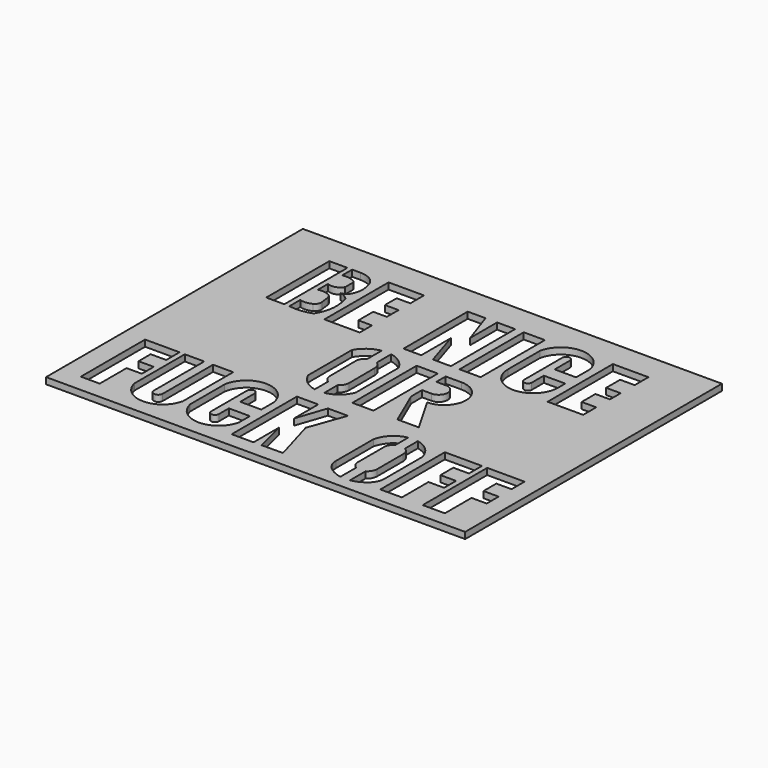
from build123d import *

# Parameters (mm, degrees)
F0_W     = 131.516211
F0_H     = 100.728699
F0_W_2   = 6.638455
F0_H_2   = 25.194527
F1_DEPTH = 2


with BuildPart() as f1:
    # F0 (on Top) → F1 (new body)
    with BuildSketch(Plane.XY):
        with Locations((-15.519272, 42.4329)):
            Rectangle(F0_W, F0_H)
        Polygon((-68.850037, -2.430835), (-74.776439, -2.430835), (-74.776439, 22.785447), (-63.96946, 22.785447), (-63.96946, 17.556264), (-68.850037, 17.556264), (-68.850037, 12.80131), (-64.063724, 12.80131), (-64.063724, 8.106085), (-68.850037, 8.106085), align=None, mode=Mode.SUBTRACT)
        with BuildLine():
            Line((-62.294139, 2.993519), (-62.294139, 22.761751))
            Line((-62.294139, 22.761751), (-56.189241, 22.761751))
            Line((-56.189241, 22.761751), (-56.189241, 2.993519))
            ThreePointArc((-56.189241, 2.993519), (-54.808373, 1.612651), (-53.427506, 2.993519))
            Line((-53.427506, 2.993519), (-53.427506, 22.761751))
            Line((-53.427506, 22.761751), (-47.104577, 22.761751))
            Line((-47.104577, 22.761751), (-47.104577, 2.993519))
            ThreePointArc((-47.104577, 2.993519), (-54.699358, -3.115539), (-62.294139, 2.993519))
        make_face(mode=Mode.SUBTRACT)
        with BuildLine():
            Line((-29.337341, 11.555552), (-35.934916, 11.555552))
            Line((-35.934916, 11.555552), (-35.934916, 15.273595))
            Line((-35.934916, 15.273595), (-35.934916, 17.210616))
            ThreePointArc((-35.934916, 17.210616), (-37.134475, 18.410176), (-38.334034, 17.210616))
            Line((-38.334034, 17.210616), (-38.334034, 3.15864))
            ThreePointArc((-38.334034, 3.15864), (-37.134475, 1.959081), (-35.934916, 3.15864))
            Line((-35.934916, 3.15864), (-35.934916, 7.100048))
            Line((-35.934916, 7.100048), (-29.337341, 7.100048))
            Line((-29.337341, 7.100048), (-29.337341, 2.874103))
            ThreePointArc((-29.337341, 2.874103), (-37.016067, -3.372054), (-44.694794, 2.874103))
            Line((-44.694794, 2.874103), (-44.694794, 16.384021))
            ThreePointArc((-44.694794, 16.384021), (-37.007705, 23.040471), (-29.320617, 16.384021))
            Line((-29.320617, 16.384021), (-29.337341, 11.555552))
        make_face(mode=Mode.SUBTRACT)
        Polygon((-19.95869, -3.198726), (-26.82983, -3.198726), (-26.82983, 22.396269), (-20.130467, 22.396269), (-20.130467, 12.862562), (-16.952566, 22.22449), (-10.682652, 22.22449), (-14.805335, 10.80122), (-10.768539, -3.112837), (-17.466396, -3.179082), (-19.95869, 6.850315), align=None, mode=Mode.SUBTRACT)
        with BuildLine():
            ThreePointArc((-25.814149, 28.123592), (-29.397827, 29.802222), (-31.741319, 32.991044))
            Line((-31.741319, 32.991044), (-31.741319, 50.115033))
            ThreePointArc((-31.741319, 50.115033), (-29.269287, 52.933156), (-25.814149, 54.387382))
            Line((-25.814149, 54.387382), (-25.814149, 48.788673))
            ThreePointArc((-25.814149, 48.788673), (-26.952091, 47.699888), (-27.381687, 46.184694))
            Line((-27.381687, 46.184694), (-27.311863, 35.995477))
            ThreePointArc((-27.311863, 35.995477), (-26.910599, 34.496621), (-25.814149, 33.398722))
            Line((-25.814149, 33.398722), (-25.814149, 28.123592))
        make_face(mode=Mode.SUBTRACT)
        with BuildLine():
            ThreePointArc((-22.814149, 54.362678), (-19.316317, 52.801147), (-16.882406, 49.843227))
            Line((-16.882406, 49.843227), (-16.882406, 32.991044))
            ThreePointArc((-16.882406, 32.991044), (-19.227698, 29.800745), (-22.814149, 28.122721))
            Line((-22.814149, 28.122721), (-22.814149, 33.396082))
            ThreePointArc((-22.814149, 33.396082), (-21.714447, 34.494334), (-21.311863, 35.995477))
            Line((-21.311863, 35.995477), (-21.382029, 46.120634))
            ThreePointArc((-21.382029, 46.120634), (-21.756521, 47.604424), (-22.814149, 48.710454))
            Line((-22.814149, 48.710454), (-22.814149, 54.362678))
        make_face(mode=Mode.SUBTRACT)
        with BuildLine():
            ThreePointArc((8.089521, -4.181215), (5.692231, -3.40806), (3.6084, -1.992991))
            ThreePointArc((3.6084, -1.992991), (2.401899, -0.317145), (1.975488, 1.703321))
            Line((1.975488, 1.703321), (1.975488, 16.364558))
            ThreePointArc((1.975488, 16.364558), (4.111857, 20.329994), (8.089521, 22.443508))
            Line((8.089521, 22.443508), (8.089521, 17.418794))
            ThreePointArc((8.089521, 17.418794), (6.991848, 16.321416), (6.589521, 14.82233))
            Line((6.589521, 14.82233), (6.589521, 4.574558))
            ThreePointArc((6.589521, 4.574558), (6.991244, 3.074101), (8.089521, 1.975676))
            Line((8.089521, 1.975676), (8.089521, -4.181215))
        make_face(mode=Mode.SUBTRACT)
        with BuildLine():
            ThreePointArc((11.089521, 22.443508), (15.067185, 20.329994), (17.203554, 16.364558))
            Line((17.203554, 16.364558), (17.203554, 1.703321))
            ThreePointArc((17.203554, 1.703321), (16.777143, -0.317145), (15.570642, -1.992991))
            ThreePointArc((15.570642, -1.992991), (13.486812, -3.40806), (11.089521, -4.181215))
            Line((11.089521, -4.181215), (11.089521, 1.975675))
            ThreePointArc((11.089521, 1.975675), (12.187396, 3.073402), (12.589521, 4.572945))
            Line((12.589521, 4.572945), (12.589521, 14.819105))
            ThreePointArc((12.589521, 14.819105), (12.188, 16.320019), (11.089521, 17.418794))
            Line((11.089521, 17.418794), (11.089521, 22.443508))
        make_face(mode=Mode.SUBTRACT)
        Polygon((26.688521, -3.326624), (19.935372, -3.326624), (19.935372, 21.97991), (31.593439, 21.97991), (31.593439, 16.861736), (26.688521, 16.861736), (26.688521, 11.814646), (31.593439, 11.814646), (31.593439, 7.122985), (26.688521, 7.122985), align=None, mode=Mode.SUBTRACT)
        Polygon((40.194817, -3.326624), (33.22841, -3.326624), (33.22841, 21.97991), (44.957563, 21.97991), (44.957563, 16.861736), (40.194817, 16.861736), (40.194817, 11.814646), (44.957563, 11.814646), (44.957563, 7.122985), (40.194817, 7.122985), align=None, mode=Mode.SUBTRACT)
        Polygon((-14.138708, 28.285733), (-14.138708, 53.501569), (-7.483595, 53.501569), (-7.483595, 49.612467), (-7.483595, 43.751744), (-7.483595, 39.947295), (-7.483595, 28.285733), align=None, mode=Mode.SUBTRACT)
        with BuildLine():
            Line((-5.016447, 49.844179), (-5.016447, 53.501569))
            Line((-5.016447, 53.501569), (0, 53.501569))
            ThreePointArc((0, 53.501569), (6.777137, 46.724432), (0, 39.947295))
            Line((0, 39.947295), (6.714008, 28.285733))
            Line((6.714008, 28.285733), (0, 28.285733))
            Line((0, 28.285733), (-5.016447, 39.947295))
            Line((-5.016447, 39.947295), (-5.016447, 44.229601))
            Line((-5.016447, 44.229601), (-2.016447, 44.229601))
            ThreePointArc((-2.016447, 44.229601), (0.790842, 47.03689), (-2.016447, 49.844179))
            Line((-2.016447, 49.844179), (-5.016447, 49.844179))
        make_face(mode=Mode.SUBTRACT)
        Polygon((-61.015129, 83.47985), (-60.367614, 83.47985), (-59.828512, 83.47985), (-59.828512, 58.733407), (-60.367614, 58.733407), (-65.519348, 58.733407), (-65.519348, 83.47985), align=None, mode=Mode.SUBTRACT)
        with BuildLine():
            ThreePointArc((-54.347017, 78.914343), (-56.285185, 79.608335), (-58.342794, 79.542241))
            Line((-58.342794, 79.542241), (-58.342794, 83.47985))
            Line((-58.342794, 83.47985), (-55.714448, 83.47985))
            ThreePointArc((-55.714448, 83.47985), (-53.593961, 83.139665), (-51.686297, 82.153253))
            ThreePointArc((-51.686297, 82.153253), (-50.575103, 80.681266), (-49.994475, 78.930732))
            ThreePointArc((-49.994475, 78.930732), (-49.748819, 75.88883), (-50.759826, 73.009354))
            ThreePointArc((-50.759826, 73.009354), (-51.631093, 72.2958), (-52.693334, 71.921755))
            ThreePointArc((-52.693334, 71.921755), (-51.23011, 71.378528), (-49.994475, 70.424942))
            ThreePointArc((-49.994475, 70.424942), (-49.633216, 69.231788), (-49.421581, 68.003238))
            ThreePointArc((-49.421581, 68.003238), (-49.469215, 63.562223), (-51.118109, 59.438386))
            ThreePointArc((-51.118109, 59.438386), (-54.616989, 58.567139), (-58.219971, 58.707711))
            Line((-58.219971, 58.707711), (-58.219971, 62.968207))
            ThreePointArc((-58.219971, 62.968207), (-56.286985, 62.762371), (-54.419563, 63.302316))
            ThreePointArc((-54.419563, 63.302316), (-53.568082, 64.143031), (-53.348958, 65.319383))
            Line((-53.348958, 65.319383), (-53.667784, 67.971645))
            ThreePointArc((-53.667784, 67.971645), (-54.033026, 68.905166), (-54.805354, 69.544207))
            ThreePointArc((-54.805354, 69.544207), (-56.484016, 70.004426), (-58.219971, 69.877279))
            Line((-58.219971, 69.877279), (-58.219971, 73.863093))
            ThreePointArc((-58.219971, 73.863093), (-55.806184, 73.667534), (-53.87862, 75.133518))
            Line((-53.87862, 75.133518), (-53.87862, 78.095299))
            ThreePointArc((-53.87862, 78.095299), (-54.003989, 78.567059), (-54.347017, 78.914343))
        make_face(mode=Mode.SUBTRACT)
        Polygon((-36.038581, 58.567139), (-47.149813, 58.567139), (-47.149813, 83.761666), (-36.038581, 83.761666), (-36.038581, 78.397621), (-40.329814, 78.397621), (-40.329814, 73.799866), (-36.038581, 73.799866), (-36.038581, 69.202118), (-40.329814, 69.202118), (-40.329814, 63.378298), (-36.038581, 63.378298), align=None, mode=Mode.SUBTRACT)
        Polygon((-16.728816, 58.567139), (-22.306419, 58.567139), (-22.306419, 83.761666), (-16.728816, 83.761666), (-13.091247, 73.205148), (-13.091247, 83.761666), (-7.432806, 83.761666), (-7.432806, 58.567139), (-13.091247, 58.567139), (-16.728816, 70.133422), align=None, mode=Mode.SUBTRACT)
        with Locations((-1.413135, 71.164402)):
            Rectangle(F0_W_2, F0_H_2, mode=Mode.SUBTRACT)
        with BuildLine():
            Line((4.527441, 66.084892), (4.527441, 78.599743))
            ThreePointArc((4.527441, 78.599743), (12.37874, 84.970864), (20.23004, 78.599743))
            Line((20.23004, 78.599743), (20.23004, 73.109737))
            Line((20.23004, 73.109737), (13.500356, 73.109737))
            Line((13.500356, 73.109737), (13.500356, 79.131036))
            ThreePointArc((13.500356, 79.131036), (12.290193, 80.341199), (11.08003, 79.131036))
            Line((11.08003, 79.131036), (11.08003, 64.136822))
            ThreePointArc((11.08003, 64.136822), (12.26139, 62.926299), (13.500356, 64.077795))
            Line((13.500356, 64.077795), (13.500356, 68.859413))
            Line((13.500356, 68.859413), (20.23004, 68.859413))
            Line((20.23004, 68.859413), (20.23004, 66.084892))
            ThreePointArc((20.23004, 66.084892), (12.37874, 58.233593), (4.527441, 66.084892))
        make_face(mode=Mode.SUBTRACT)
        Polygon((34.020625, 58.6363), (22.865487, 58.6363), (22.865487, 84.238255), (34.020625, 84.238255), (34.020625, 78.843556), (29.448847, 78.843556), (29.448847, 73.357426), (34.020625, 73.357426), (34.020625, 69.151387), (29.448847, 69.151387), (29.448847, 63.756695), (34.020625, 63.756695), align=None, mode=Mode.SUBTRACT)
    extrude(amount=F1_DEPTH)


solid = f1.part
